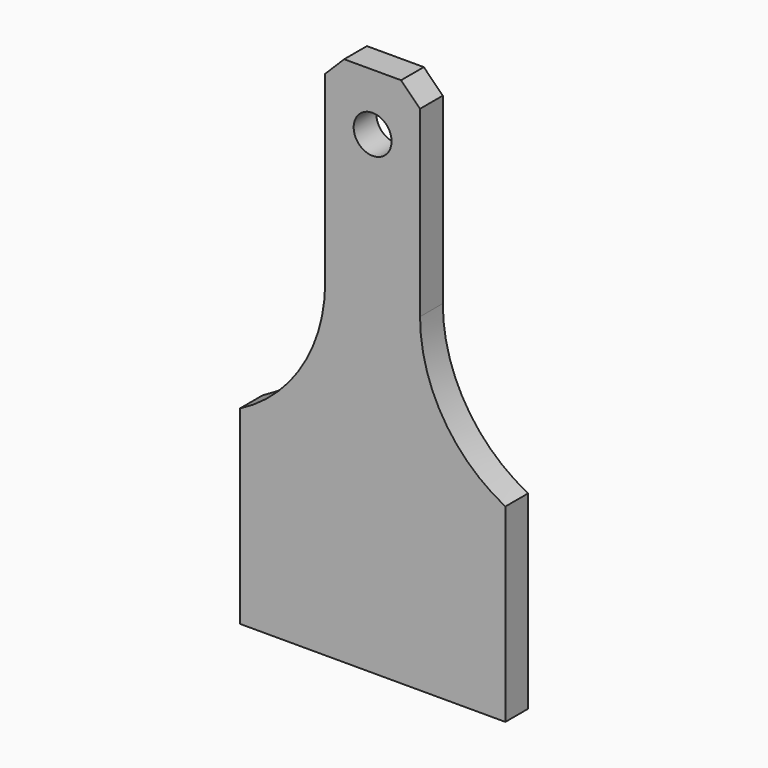
from build123d import *

# Parameters (mm, degrees)
F1_DEPTH = 9.525
F2_DEPTH = 6.35
F3_R     = 6.35
F4_DEPTH = 9.526
F5_SIZE  = 6.35


with BuildPart() as f1:
    # F0 (on Front) → F1 (new body)
    with BuildSketch(Plane.XZ):
        with BuildLine():
            Line((-44.45, 63.5), (-44.45, 0))
            Line((-44.45, 0), (44.45, 0))
            Line((44.45, 0), (44.45, 63.5))
            ThreePointArc((44.45, 63.5), (23.58629, 82.8043), (15.875, 110.16278))
            Line((15.875, 110.16278), (15.875, 177.8))
            Line((15.875, 177.8), (-15.875, 177.8))
            Line((-15.875, 177.8), (-15.875, 110.16278))
            ThreePointArc((-15.875, 110.16278), (-23.58629, 82.8043), (-44.45, 63.5))
        make_face()
    extrude(amount=-F1_DEPTH)

    # F0 (on Front) → F2 (join)
    with BuildSketch(Plane.XZ):
        with BuildLine():
            Line((-44.45, 63.5), (-44.45, 0))
            Line((-44.45, 0), (44.45, 0))
            Line((44.45, 0), (44.45, 63.5))
            ThreePointArc((44.45, 63.5), (23.58629, 82.8043), (15.875, 110.16278))
            Line((15.875, 110.16278), (15.875, 177.8))
            Line((15.875, 177.8), (-15.875, 177.8))
            Line((-15.875, 177.8), (-15.875, 110.16278))
            ThreePointArc((-15.875, 110.16278), (-23.58629, 82.8043), (-44.45, 63.5))
        make_face()
    extrude(amount=-F2_DEPTH)

    # F3 (on face) → F4 (cut, through all)
    with BuildSketch(Plane.XZ):
        with Locations((0, 158.75)):
            Circle(F3_R)
    extrude(amount=-F4_DEPTH, mode=Mode.SUBTRACT)

    # F5
    f5_edges = [f1.edges().sort_by_distance(p)[0] for p in [
        (15.875, 4.7625, 177.8),
        (-15.875, 4.7625, 177.8),
    ]]
    chamfer(f5_edges, length=F5_SIZE)


solid = f1.part
